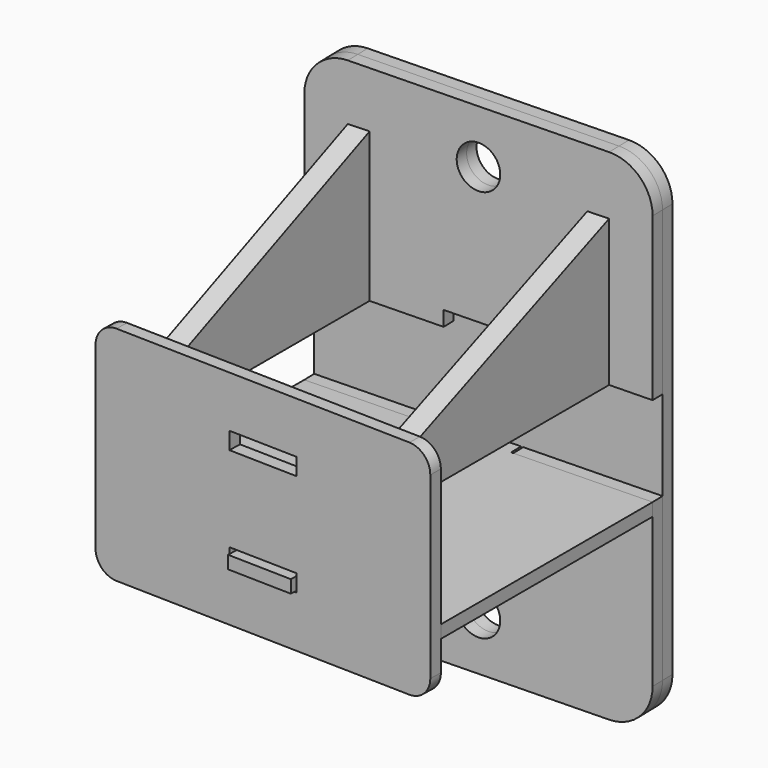
from build123d import *

# Parameters (mm, degrees)
F1_DEPTH  = 3
F2_W      = 16
F2_H      = 4
F3_DEPTH  = 3
F4_R      = 5
F5_DEPTH  = 3
F6_R      = 5
F7_DEPTH  = 3
F9_DEPTH  = 5
F12_DEPTH = 5


with BuildPart() as f1:
    # F0 (on Top) → F1 (new body)
    with BuildSketch(Plane.XY):
        Polygon((32.502303, 58.805691), (0, 58), (0, 0), (32.502303, -0.805691), (32.403179, -4.804463), (47.398572, -5.17618), (47.497697, -1.177409), (80, -1.9831), (80, 59.9831), (47.497697, 59.177409), (47.423353, 62.176487), (32.42796, 61.80477), align=None)
    extrude(amount=F1_DEPTH)


with BuildPart() as f3:
    # F2 (on face) → F3 (new body)
    with BuildSketch(Plane(origin=(0, 0, 0), x_dir=(0.999693, -0.024781, 0), z_dir=(-0.024781, -0.999693, 0))):
        with BuildLine():
            ThreePointArc((0, -7), (1.464466, -10.535534), (5, -12))
            Line((5, -12), (75, -12))
            ThreePointArc((75, -12), (78.535534, -10.535534), (80, -7))
            Line((80, -7), (80, 35))
            ThreePointArc((80, 35), (78.535534, 38.535534), (75, 40))
            Line((75, 40), (5, 40))
            ThreePointArc((5, 40), (1.464466, 38.535534), (0, 35))
            Line((0, 35), (0, -7))
        make_face()
        with Locations((40, 2)):
            Rectangle(F2_W, F2_H, mode=Mode.SUBTRACT)
        with Locations((40, 26)):
            Rectangle(F2_W, F2_H, mode=Mode.SUBTRACT)
    extrude(amount=F3_DEPTH)


with BuildPart() as f5:
    # F4 (on face) → F5 (new body)
    with BuildSketch(Plane(origin=(-1.436865, 57.964382, 0), x_dir=(-0.999693, -0.024781, 0), z_dir=(-0.024781, 0.999693, 0))):
        with BuildLine():
            ThreePointArc((-81.449594, -35), (-78.520662, -42.071068), (-71.449594, -45))
            Line((-71.449594, -45), (-11.449594, -45))
            ThreePointArc((-11.449594, -45), (-4.378526, -42.071068), (-1.449594, -35))
            Line((-1.449594, -35), (-1.449594, 3))
            Line((-1.449594, 3), (-33.449594, 3))
            Line((-33.449594, 3), (-33.449594, -0.5))
            Line((-33.449594, -0.5), (-49.449594, -0.5))
            Line((-49.449594, -0.5), (-49.449594, 3))
            Line((-49.449594, 3), (-81.449594, 3))
            Line((-81.449594, 3), (-81.449594, -35))
        make_face()
        with Locations((-41.449594, -32.5)):
            Circle(F4_R, mode=Mode.SUBTRACT)
        with BuildLine():
            Line((-11.449594, 72), (-71.449594, 72))
            ThreePointArc((-71.449594, 72), (-78.520662, 69.071068), (-81.449594, 62))
            Line((-81.449594, 62), (-81.449594, 24))
            Line((-81.449594, 24), (-49.449594, 24))
            Line((-49.449594, 24), (-49.449594, 27.5))
            Line((-49.449594, 27.5), (-33.449594, 27.5))
            Line((-33.449594, 27.5), (-33.449594, 24))
            Line((-33.449594, 24), (-1.449594, 24))
            Line((-1.449594, 24), (-1.449594, 62))
            ThreePointArc((-1.449594, 62), (-4.378526, 69.071068), (-11.449594, 72))
        make_face()
        with Locations((-41.449594, 59.5)):
            Circle(F4_R, mode=Mode.SUBTRACT)
    extrude(amount=F5_DEPTH)


with BuildPart() as f7:
    # F6 (on face) → F7 (new body)
    with BuildSketch(Plane(origin=(-1.511208, 60.963461, 0), x_dir=(-0.999693, -0.024781, 0), z_dir=(-0.024781, 0.999693, 0))):
        with BuildLine():
            ThreePointArc((-81.449594, -35), (-78.520662, -42.071068), (-71.449594, -45))
            Line((-71.449594, -45), (-11.449594, -45))
            ThreePointArc((-11.449594, -45), (-4.378526, -42.071068), (-1.449594, -35))
            Line((-1.449594, -35), (-1.449594, 62))
            ThreePointArc((-1.449594, 62), (-4.378526, 69.071068), (-11.449594, 72))
            Line((-11.449594, 72), (-71.449594, 72))
            ThreePointArc((-71.449594, 72), (-78.520662, 69.071068), (-81.449594, 62))
            Line((-81.449594, 62), (-81.449594, -35))
        make_face()
        with Locations((-41.449594, -32.5)):
            Circle(F6_R, mode=Mode.SUBTRACT)
        with Locations((-41.449594, 59.5)):
            Circle(F6_R, mode=Mode.SUBTRACT)
    extrude(amount=F7_DEPTH)


with BuildPart() as f9:
    # F8 (on Right) → F9 (new body)
    with BuildSketch(Plane.YZ):
        Polygon((0, 24), (58.5, 24), (58.5, 59), (0, 34), align=None)
    extrude(amount=F9_DEPTH)


with BuildPart() as f9_1:
    # F10: moved
    add(f9.part.moved(Location((10, 0, 0))))


with BuildPart() as f12:
    # F11 (on Right) → F12 (new body)
    with BuildSketch(Plane.YZ):
        Polygon((0, 34), (0, 24), (61.5, 24), (61.5, 59), align=None)
    extrude(amount=F12_DEPTH)


with BuildPart() as f12_1:
    # F13: moved
    add(f12.part.moved(Location((65, 0, 0))))


solid = Compound([f1.part, f3.part, f5.part, f7.part, f9_1.part, f12_1.part])
